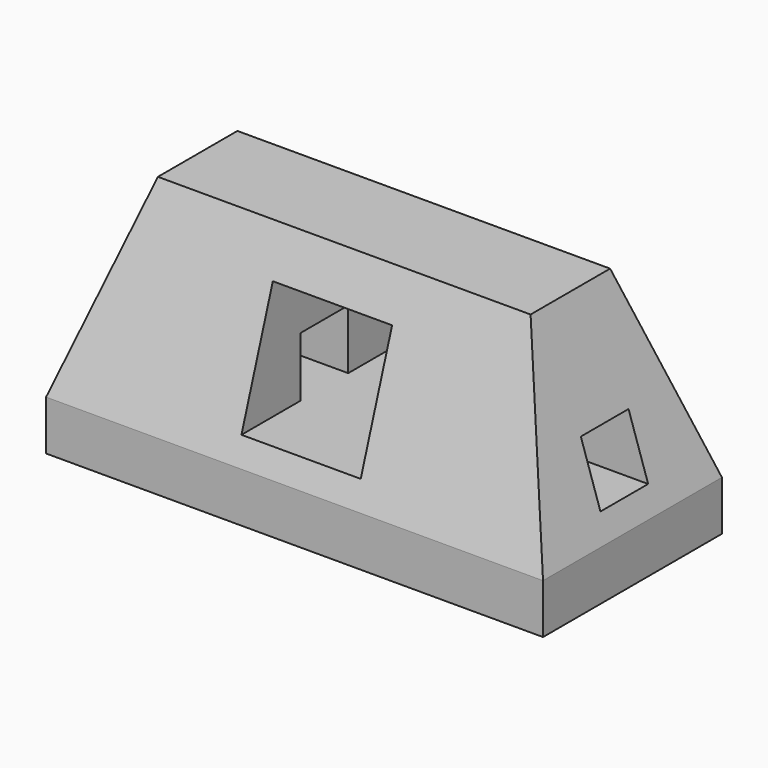
from build123d import *

# Parameters (mm, degrees)
F0_W     = 100
F0_H     = 45
F1_DEPTH = 10
F3_DEPTH = 45
F5_DEPTH = 122


with BuildPart() as f1:
    # F0 (on Top) → F1 (new body)
    with BuildSketch(Plane.XY):
        with Locations((-12.765671, -6.932852)):
            Rectangle(F0_W, F0_H)
    extrude(amount=F1_DEPTH)

    # F2 (on face) → F3 (join)
    with BuildSketch(Plane(origin=(0, 15.567148, 0), x_dir=(-1, 0, 0), z_dir=(0, 1, 0))):
        Polygon((12.765671, 39), (12.765671, 48), (-24.734329, 48), (-37.234329, 10), (12.765671, 10), (12.765671, 15), (0.765671, 15), (0.765671, 39), align=None)
        Polygon((50.265671, 48), (12.765671, 48), (12.765671, 39), (24.765671, 39), (24.765671, 15), (12.765671, 15), (12.765671, 10), (62.765671, 10), align=None)
    extrude(amount=-F3_DEPTH)

    # F4 (on face) → F5 (cut)
    with BuildSketch(Plane.YZ.offset(37.234329)):
        Polygon((-29.432852, 10), (-16.932852, 48), (-29.432852, 48), align=None)
        Polygon((15.567148, 48), (3.067148, 48), (15.567148, 10), align=None)
        Polygon((-0.932852, 27), (-6.932852, 27), (-12.932852, 27), (-12.932852, 15), (-0.932852, 15), align=None)
    extrude(amount=-F5_DEPTH, mode=Mode.SUBTRACT)


solid = f1.part
